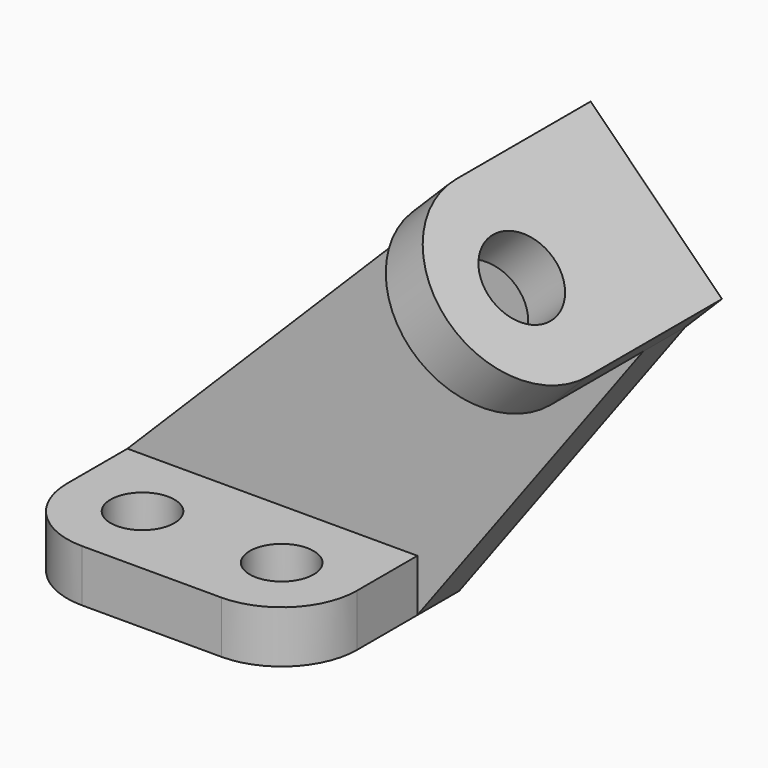
from build123d import *

# Parameters (mm, degrees)
F1_DEPTH  = 9
F3_DEPTH  = 26
F5_DEPTH  = 35.001
F6_R      = 7
F7_DEPTH  = 9
F8_R      = 13
F9_R      = 5.5
F10_DEPTH = 9.001


with BuildPart() as f1:
    # F0 (on Front) → F1 (new body)
    with BuildSketch(Plane.XZ):
        Polygon((75.313708, 75.313708), (0, 0), (59, 0), (97.941125, 52.686292), align=None)
    extrude(amount=F1_DEPTH)

    # F2 (on face) → F3 (join)
    with BuildSketch(Plane.XZ.offset(9)):
        Polygon((0, 0), (59, 0), (59, 9), (9, 9), align=None)
    extrude(amount=F3_DEPTH)

    # F4 (on face) → F5 (cut, through all)
    with BuildSketch(Plane.XZ.offset(35)):
        Polygon((9, 9), (0, 0), (9, 0), align=None)
    extrude(amount=-F5_DEPTH, mode=Mode.SUBTRACT)

    # F6 (on face) → F7 (join)
    with BuildSketch(Plane(origin=(75.313708, 0, 75.313708), x_dir=(0.707107, 0, -0.707107), z_dir=(0.707107, 0, 0.707107))):
        with BuildLine():
            Line((32, 0), (0, 0))
            Line((0, 0), (0, -29))
            ThreePointArc((0, -29), (16, -45), (32, -29))
            Line((32, -29), (32, 0))
        make_face()
        with Locations((16, -29)):
            Circle(F6_R, mode=Mode.SUBTRACT)
    extrude(amount=F7_DEPTH)

    # F8
    f8_edges = [f1.edges().sort_by_distance(p)[0] for p in [
        (9, -35, 4.5),
        (59, -35, 4.5),
    ]]
    fillet(f8_edges, radius=F8_R)

    # F9 (on face) → F10 (cut, through all)
    with BuildSketch(Plane.XY.offset(9)):
        with Locations((22, -22)):
            Circle(F9_R)
        with Locations((46, -22)):
            Circle(F9_R)
    extrude(amount=-F10_DEPTH, mode=Mode.SUBTRACT)


solid = f1.part
